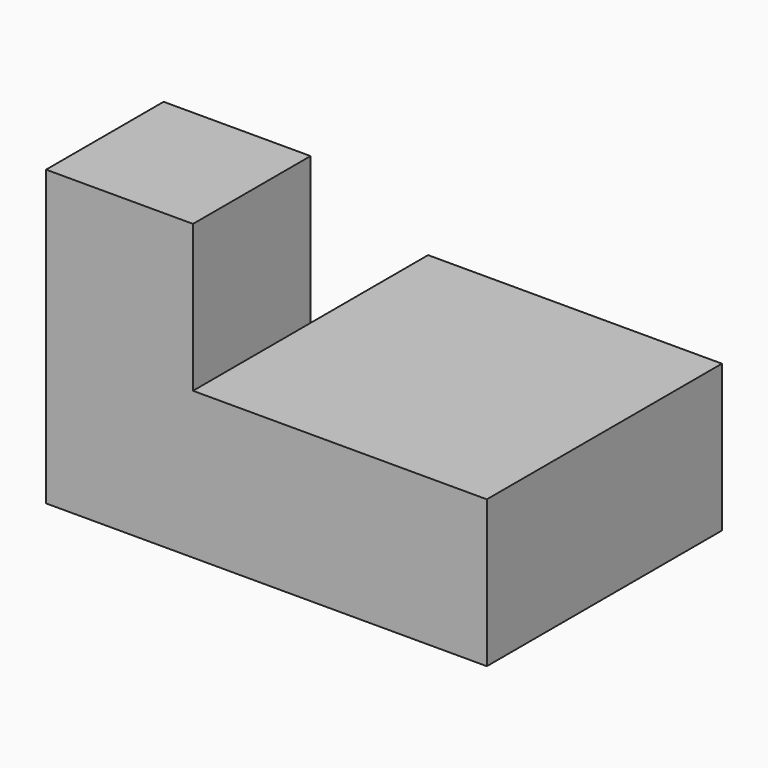
from build123d import *

# Parameters (mm, degrees)
F1_DEPTH = 19.05
F2_W     = 38.1
F2_H     = 19.05
F3_DEPTH = 19.05


with BuildPart() as f1:
    # F0 (on Front) → F1 (new body)
    with BuildSketch(Plane.XZ):
        Polygon((-25.4, 19.05), (-25.4, -19.05), (31.75, -19.05), (31.75, 0), (-6.35, 0), (-6.35, 19.05), align=None)
    extrude(amount=F1_DEPTH)

    # F2 (on face) → F3 (join)
    with BuildSketch(Plane(origin=(0, 0, 0), x_dir=(-1, 0, 0), z_dir=(0, 1, 0))):
        with Locations((-12.7, -9.525)):
            Rectangle(F2_W, F2_H)
    extrude(amount=F3_DEPTH)


solid = f1.part
